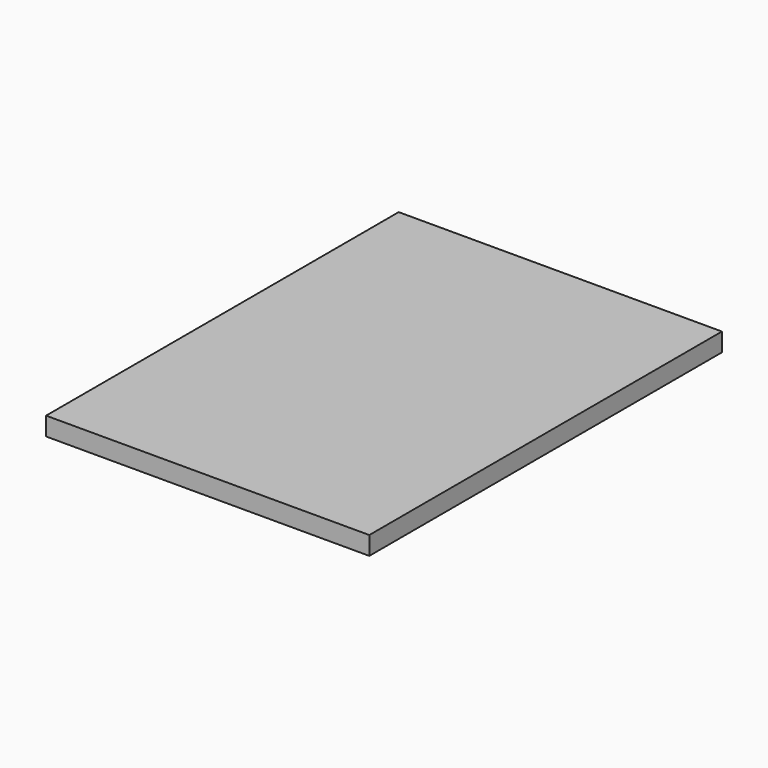
from build123d import *

# Parameters (mm, degrees)
F0_W     = 88
F0_H     = 120
F1_DEPTH = 5
F3_DEPTH = 117
F5_DEPTH = 117


with BuildPart() as f1:
    # F0 (on Top) → F1 (new body)
    with BuildSketch(Plane.XY):
        Rectangle(F0_W, F0_H)
    extrude(amount=F1_DEPTH)

    # F2 (on face) → F3 (cut)
    with BuildSketch(Plane.XZ.offset(60)):
        Polygon((41.267949, 5), (-41.267949, 5), (-43, 2), (43, 2), align=None)
    extrude(amount=-F3_DEPTH, mode=Mode.SUBTRACT)

    # F4 (on face) → F5 (join)
    with BuildSketch(Plane.XZ.offset(-57)):
        Polygon((41.267949, 5), (-41.267949, 5), (-43, 2), (43, 2), align=None)
    extrude(amount=F5_DEPTH)


solid = f1.part
